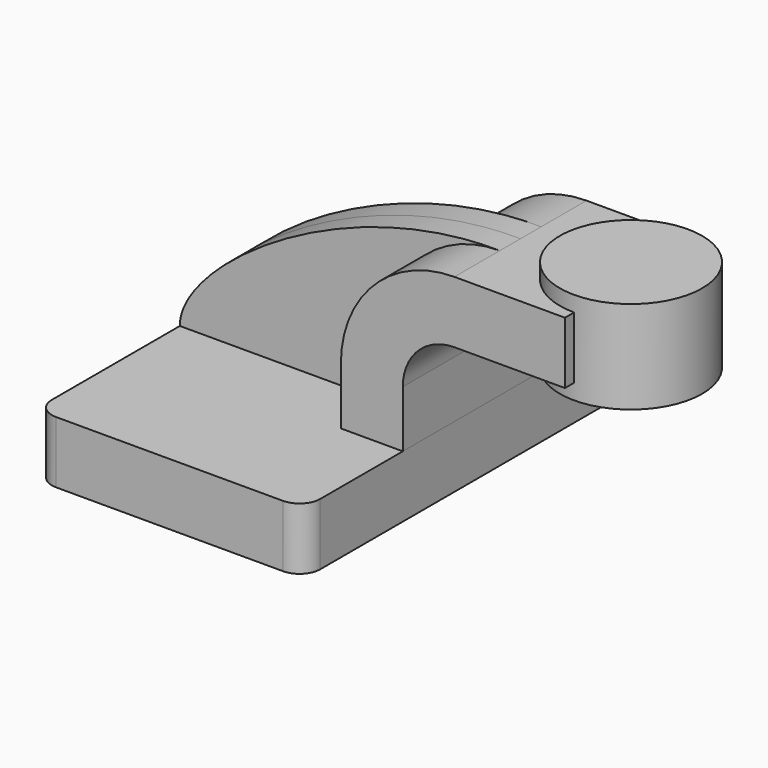
from build123d import *

# Parameters (mm, degrees)
F1_DEPTH = 63.5
F0_W     = 28.925544
F0_H     = 19.05
F2_DEPTH = 25.4
F3_DEPTH = 7.9375
F5_R     = 6.35
F6_R     = 6.35
F7_R     = 6.35


with BuildPart() as f1:
    # F0 (on Front) → F1 (new body, symmetric)
    with BuildSketch(Plane.XZ):
        Polygon((41.275, -9.525), (41.275, 9.525), (22.225, 9.525), (-41.275, 9.525), (-41.275, -9.525), align=None)
    extrude(amount=F1_DEPTH, both=True)

    # F5
    f5_edges = [f1.edges().sort_by_distance(p)[0] for p in [
        (41.275, -63.5, 0),
    ]]
    fillet(f5_edges, radius=F5_R)

    # F6
    f6_edges = [f1.edges().sort_by_distance(p)[0] for p in [
        (-41.275, -63.5, 0),
    ]]
    fillet(f6_edges, radius=F6_R)

    # F7
    f7_edges = [f1.edges().sort_by_distance(p)[0] for p in [
        (-41.275, 63.5, 0),
        (41.275, 63.5, 0),
    ]]
    fillet(f7_edges, radius=F7_R)


with BuildPart() as f2:
    # F0 (on Front) → F2 (new body, symmetric)
    with BuildSketch(Plane.XZ):
        with BuildLine():
            Line((22.225, 9.525), (41.275, 9.525))
            Line((41.275, 9.525), (41.275, 27.0002))
            ThreePointArc((41.275, 27.0002), (45.92468, 38.22552), (57.15, 42.8752))
            Line((57.15, 42.8752), (62.23, 42.8752))
            Line((62.23, 42.8752), (62.23, 61.9252))
            Line((62.23, 61.9252), (57.15, 61.9252))
            ThreePointArc((57.15, 61.9252), (32.454296, 51.695904), (22.225, 27.0002))
            Line((22.225, 27.0002), (22.225, 9.525))
        make_face()
        with Locations((76.692772, 52.4002)):
            Rectangle(F0_W, F0_H)
    extrude(amount=F2_DEPTH, both=True)

    # F0 (on Front) → F4 (revolve)
    with BuildSketch(Plane.XZ):
        Polygon((91.155544, 61.9252), (91.155544, 42.8752), (91.155544, 38.1), (113.03, 38.1), (113.03, 66.675), (91.155544, 66.675), align=None)
    revolve(axis=Axis((91.155544, 0, 52.4002), (0, 0, 1)))


with BuildPart() as f3:
    # F0 (on Front) → F3 (new body, symmetric)
    with BuildSketch(Plane.XZ):
        with BuildLine():
            Line((-41.275, 9.525), (22.225, 9.525))
            Line((22.225, 9.525), (22.225, 27.0002))
            ThreePointArc((22.225, 27.0002), (32.454296, 51.695904), (57.15, 61.9252))
            add(Edge.make_bspline(
                [(-41.275, 9.525), (-41.45883, 27.298592), (7.883017, 62.626183), (57.15, 61.9252)],
                knots=[0, 0, 0, 0, 111.504536, 111.504536, 111.504536, 111.504536], degree=3))
        make_face()
    extrude(amount=F3_DEPTH, both=True)


solid = Compound([f1.part, f2.part, f3.part])
